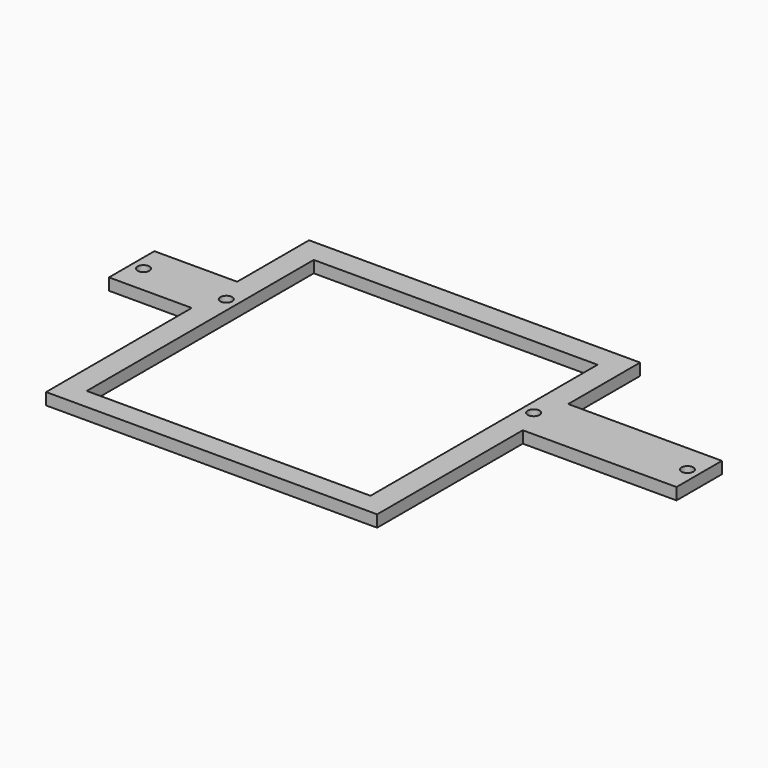
from build123d import *

# Parameters (mm, degrees)
BOX019_W               = 120
BOX019_H               = 30
BOX019_DEPTH           = 120
CYLINDER075_R          = 2.5
CYLINDER075_DEPTH      = 10
CYLINDER076_R          = 2.5
CYLINDER076_DEPTH      = 10
CYLINDER077_R          = 2.5
CYLINDER077_DEPTH      = 10
CYLINDER078_R          = 2.5
CYLINDER078_DEPTH      = 10
CYLINDER074_R          = 2.5
CYLINDER074_DEPTH      = 10
CYLINDER079_R          = 2.5
CYLINDER079_DEPTH      = 10
BOX016_W               = 240
BOX016_H               = 5
BOX016_DEPTH           = 24
BOX017_W               = 140
BOX017_H               = 5
BOX017_DEPTH           = 38
BOX018_W               = 140
BOX018_H               = 5
BOX018_DEPTH           = 77
CUT010_PLACEMENT_ANGLE = 90


with BuildPart() as gatewaycut002:
    # Box019 → Box019 (new body)
    with BuildSketch(Plane(origin=(-75, -3.2, -111), x_dir=(1, 0, 0), z_dir=(0, 0, 1))):
        with Locations((60, 15)):
            Rectangle(BOX019_W, BOX019_H)
    extrude(amount=BOX019_DEPTH)


with BuildPart() as cylinder075:
    # Cylinder075 → Cylinder075 (new body)
    with BuildSketch(Plane(origin=(115, 0, -31), x_dir=(1, 0, 0), z_dir=(0, -1, 0))):
        Circle(CYLINDER075_R)
    extrude(amount=CYLINDER075_DEPTH)


with BuildPart() as cylinder076:
    # Cylinder076 → Cylinder076 (new body)
    with BuildSketch(Plane(origin=(-80, 0, -31), x_dir=(1, 0, 0), z_dir=(0, -1, 0))):
        Circle(CYLINDER076_R)
    extrude(amount=CYLINDER076_DEPTH)


with BuildPart() as cylinder077:
    # Cylinder077 → Cylinder077 (new body)
    with BuildSketch(Plane(origin=(50, 0, -31), x_dir=(1, 0, 0), z_dir=(0, -1, 0))):
        Circle(CYLINDER077_R)
    extrude(amount=CYLINDER077_DEPTH)


with BuildPart() as cylinder078:
    # Cylinder078 → Cylinder078 (new body)
    with BuildSketch(Plane(origin=(-45.75, 0, -56.3), x_dir=(1, 0, 0), z_dir=(0, -1, 0))):
        Circle(CYLINDER078_R)
    extrude(amount=CYLINDER078_DEPTH)


with BuildPart() as cylinder074:
    # Cylinder074 → Cylinder074 (new body)
    with BuildSketch(Plane(origin=(-115, 0, -31), x_dir=(1, 0, 0), z_dir=(0, -1, 0))):
        Circle(CYLINDER074_R)
    extrude(amount=CYLINDER074_DEPTH)


with BuildPart() as m3heatsetinserts004:
    # Cylinder079 → Cylinder079 (new body)
    with BuildSketch(Plane(origin=(-45.75, 0, -1.3), x_dir=(1, 0, 0), z_dir=(0, -1, 0))):
        Circle(CYLINDER079_R)
    extrude(amount=CYLINDER079_DEPTH)

    # Fusion028: union Cylinder075, Cylinder076, Cylinder077, Cylinder078, Cylinder074
    add(cylinder075.part)
    add(cylinder076.part)
    add(cylinder077.part)
    add(cylinder078.part)
    add(cylinder074.part)


with BuildPart() as m3heatsetinserts004_1:
    # Fusion028 placement: moved
    add(m3heatsetinserts004.part.moved(Location((0, 5.1, 0))))


with BuildPart() as cube013:
    # Box016 → Box016 (new body)
    with BuildSketch(Plane(origin=(-120, 0, -43), x_dir=(1, 0, 0), z_dir=(0, 0, 1))):
        with Locations((120, 2.5)):
            Rectangle(BOX016_W, BOX016_H)
    extrude(amount=BOX016_DEPTH)


with BuildPart() as cube014:
    # Box017 → Box017 (new body)
    with BuildSketch(Plane(origin=(-85, 0, -19), x_dir=(1, 0, 0), z_dir=(0, 0, 1))):
        with Locations((70, 2.5)):
            Rectangle(BOX017_W, BOX017_H)
    extrude(amount=BOX017_DEPTH)


with BuildPart() as obj1:
    # Box018 → Box018 (new body)
    with BuildSketch(Plane(origin=(-85, 0, -120), x_dir=(1, 0, 0), z_dir=(0, 0, 1))):
        with Locations((70, 2.5)):
            Rectangle(BOX018_W, BOX018_H)
    extrude(amount=BOX018_DEPTH)

    # Fusion027: union Cube013, Cube014
    add(cube013.part)
    add(cube014.part)

    # Cut009: cut M3HeatSetInserts004
    add(m3heatsetinserts004_1.part, mode=Mode.SUBTRACT)

    # Cut010: cut GatewayCut002
    add(gatewaycut002.part, mode=Mode.SUBTRACT)


with BuildPart() as obj1_1:
    # Cut010 placement: moved
    add(obj1.part.rotate(Axis((0, 0, 0), (-1, 0, 0)), CUT010_PLACEMENT_ANGLE))


solid = obj1_1.part
